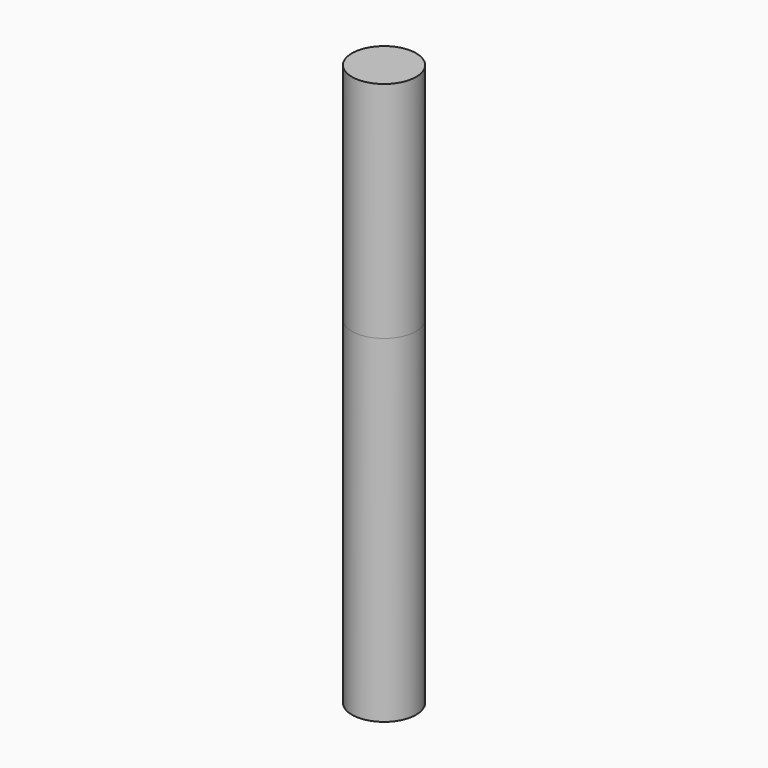
from build123d import *

# Parameters (mm, degrees)
F0_W = 5.0038
F0_H = 34.925


with BuildPart() as f1:
    # F0 (on Front) → F1 (revolve)
    with BuildSketch(Plane.XZ):
        with Locations((2.5019, -17.4625)):
            Rectangle(F0_W, F0_H)
    revolve(axis=Axis((0, 0, -44.45), (0, 0, 1)))


with BuildPart() as f2:
    # F0 (on Front) → F2 (revolve)
    with BuildSketch(Plane.XZ):
        Polygon((5.0038, -34.925), (0, -34.925), (0, -88.9), (5.0038, -87.559236), align=None)
    revolve(axis=Axis((0, 0, -44.45), (0, 0, 1)))


solid = Compound([f1.part, f2.part])
